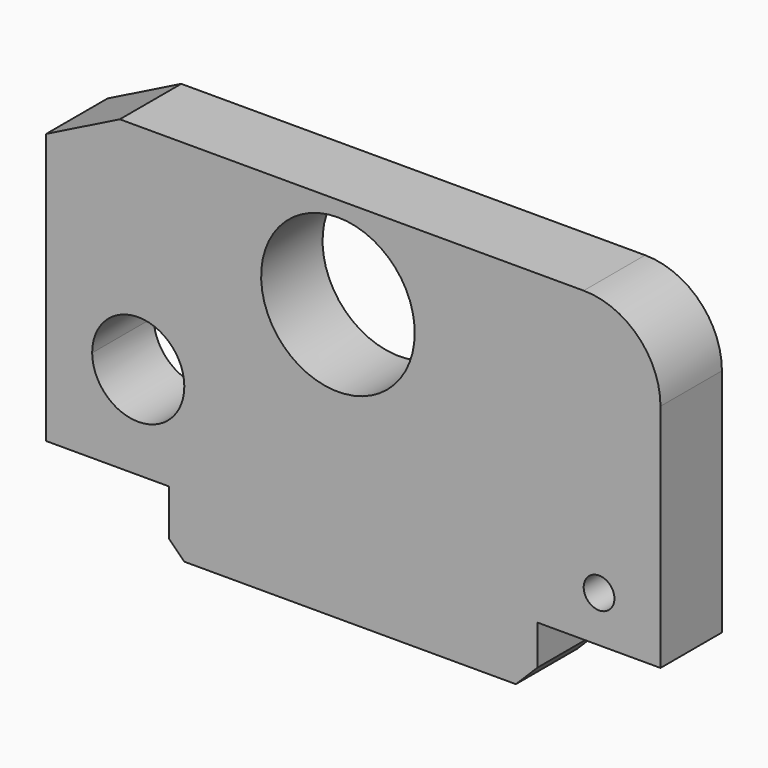
from build123d import *

# Parameters (mm, degrees)
F0_R     = 5
F1_DEPTH = 25
F2_SIZE  = 7.071


with BuildPart() as f1:
    # F0 (on Front) → F1 (new body)
    with BuildSketch(Plane.XZ):
        with BuildLine():
            Line((-29.328247, 69.748303), (-53.328247, 57.748303))
            Line((-53.328247, 57.748303), (-53.328247, -0.251697))
            Line((-53.328247, -0.251697), (-53.328247, -30.251697))
            Line((-53.328247, -30.251697), (-33.328247, -30.251697))
            Line((-33.328247, -30.251697), (-13.328247, -30.251697))
            Line((-13.328247, -30.251697), (106.671753, -30.251697))
            Line((106.671753, -30.251697), (146.671753, -30.251697))
            Line((146.671753, -30.251697), (146.671753, -15.251697))
            Line((146.671753, -15.251697), (146.671753, 44.748303))
            ThreePointArc((146.671753, 44.748303), (139.349423, 62.425973), (121.671753, 69.748303))
            Line((121.671753, 69.748303), (41.671753, 69.748303))
            Line((41.671753, 69.748303), (-29.328247, 69.748303))
        make_face()
        with BuildLine():
            ThreePointArc((-8.329303, 0), (-23.266378, -14.999868), (-38.328775, -0.125848))
            ThreePointArc((-38.328775, -0.125848), (-23.392227, 14.999868), (-8.329303, 0))
        make_face(mode=Mode.SUBTRACT)
        with Locations((126.671753, -15.251697)):
            Circle(F0_R, mode=Mode.SUBTRACT)
        with BuildLine():
            ThreePointArc((66.671753, 39.748303), (23.994084, 22.070634), (41.671753, 64.748303))
            ThreePointArc((41.671753, 64.748303), (59.349423, 57.425973), (66.671753, 39.748303))
        make_face(mode=Mode.SUBTRACT)
        Polygon((106.671753, -30.251697), (-13.328247, -30.251697), (-13.328247, -45.202506), (-8.328247, -50.202506), (106.671753, -50.202506), align=None)
    extrude(amount=F1_DEPTH)

    # F2
    f2_edges = [f1.edges().sort_by_distance(p)[0] for p in [
        (106.671753, -12.5, -50.202506),
    ]]
    chamfer(f2_edges, length=F2_SIZE)


solid = f1.part
